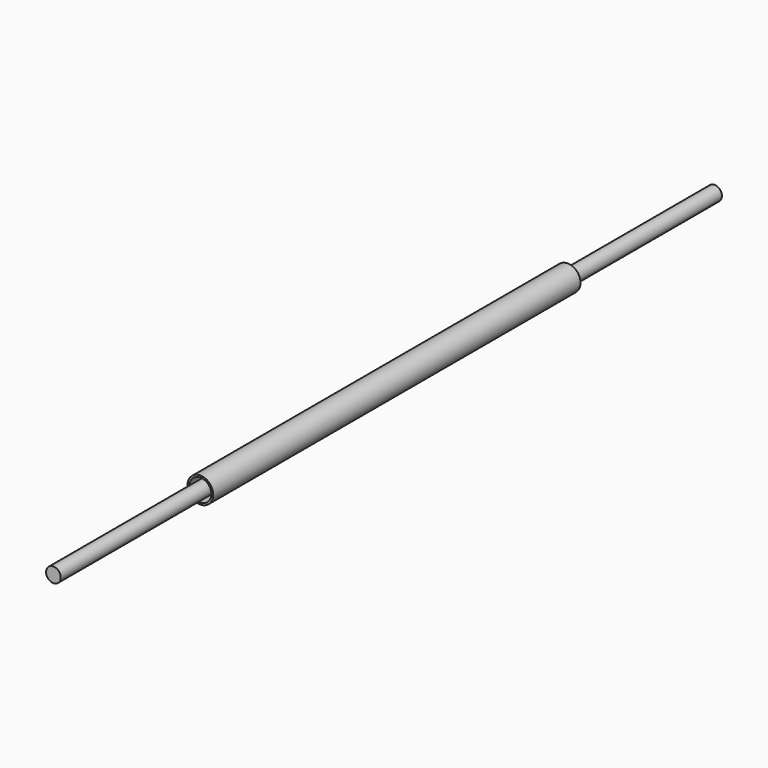
from build123d import *

# Parameters (mm, degrees)
F0_R     = 4
F1_DEPTH = 225
F0_R_2   = 6
F2_DEPTH = 6
F0_R_3   = 7
F3_DEPTH = 125


with BuildPart() as f1:
    # F0 (on Front) → F1 (new body, symmetric)
    with BuildSketch(Plane.XZ):
        Circle(F0_R)
    extrude(amount=F1_DEPTH, both=True)


with BuildPart() as f2:
    # F0 (on Front) → F2 (new body, symmetric)
    with BuildSketch(Plane.XZ):
        Circle(F0_R_2)
        Circle(F0_R, mode=Mode.SUBTRACT)
    extrude(amount=F2_DEPTH, both=True)


with BuildPart() as f3:
    # F0 (on Front) → F3 (new body, symmetric)
    with BuildSketch(Plane.XZ):
        Circle(F0_R_3)
        Circle(F0_R_2, mode=Mode.SUBTRACT)
    extrude(amount=F3_DEPTH, both=True)


solid = Compound([f1.part, f2.part, f3.part])
